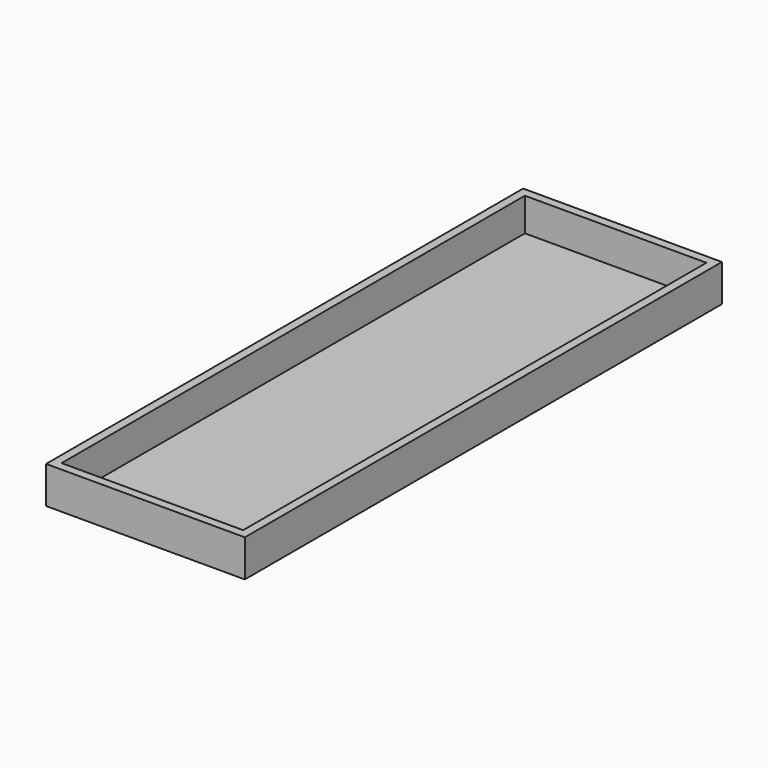
from build123d import *

# Parameters (mm, degrees)
F0_W     = 150
F0_H     = 450
F1_DEPTH = 3
F3_DEPTH = 25


with BuildPart() as f1:
    # F0 (on Top) → F1 (new body)
    with BuildSketch(Plane.XY):
        with Locations((-19.980955, 8.001804)):
            Rectangle(F0_W, F0_H)
    extrude(amount=F1_DEPTH)

    # F2 (on face) → F3 (join)
    with BuildSketch(Plane.XY.offset(3)):
        Polygon((-94.980955, 233.001804), (-94.980955, -216.998196), (55.019045, -216.998196), (55.019045, 73.85546), (55.019045, 233.001804), align=None)
        Polygon((48.519045, 226.501804), (48.519045, 73.85546), (48.519045, -210.498196), (-88.480955, -210.498196), (-88.480955, 226.501804), align=None, mode=Mode.SUBTRACT)
    extrude(amount=F3_DEPTH)


solid = f1.part
